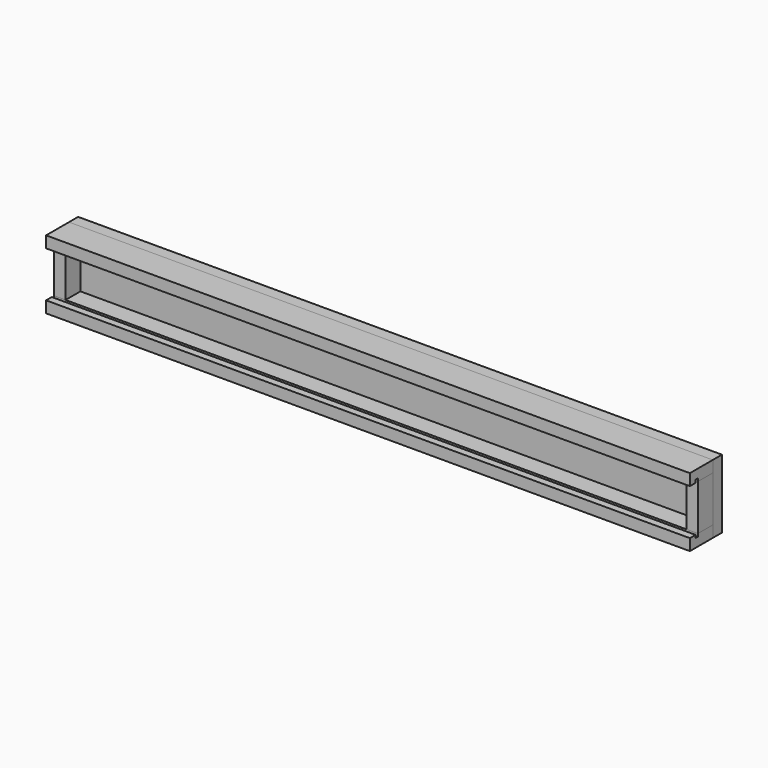
from build123d import *

# Parameters (mm, degrees)
F3_DEPTH = 20
F2_W     = 8
F2_H     = 32
F4_DEPTH = 13
F2_W_2   = 434
F5_DEPTH = 8
F6_W     = 2
F6_H     = 2
F7_DEPTH = 2384


with BuildPart() as f3:
    # F2 (on Front) → F3 (new body)
    with BuildSketch(Plane.XZ):
        Polygon((-217, 16), (217, 16), (225, 16), (225, 24), (217, 24), (-217, 24), (-225, 24), (-225, 16), align=None)
    extrude(amount=F3_DEPTH)

    # F6 (on face) → F7 (cut)
    with BuildSketch(Plane(origin=(-225, 0, 0), x_dir=(0, -1, 0), z_dir=(-1, 0, 0))):
        with Locations((14, 17)):
            Rectangle(F6_W, F6_H)
    extrude(amount=-F7_DEPTH, mode=Mode.SUBTRACT)


with BuildPart() as f4:
    # F2 (on Front) → F4 (new body)
    with BuildSketch(Plane.XZ):
        with Locations((-221, 0)):
            Rectangle(F2_W, F2_H)
    extrude(amount=F4_DEPTH)


with BuildPart() as f4b:
    # F2 (on Front) → F4, piece 2 (new body)
    with BuildSketch(Plane.XZ):
        with Locations((221, 0)):
            Rectangle(F2_W, F2_H)
    extrude(amount=F4_DEPTH)


with BuildPart() as f5:
    # F2 (on Front) → F5 (new body)
    with BuildSketch(Plane.XZ):
        Rectangle(F2_W_2, F2_H)
        Polygon((225, -16), (217, -16), (-217, -16), (-225, -16), (-225, -24), (-217, -24), (217, -24), (225, -24), align=None)
        with Locations((221, 0)):
            Rectangle(F2_W, F2_H)
        Polygon((-217, 16), (217, 16), (225, 16), (225, 24), (217, 24), (-217, 24), (-225, 24), (-225, 16), align=None)
        with Locations((-221, 0)):
            Rectangle(F2_W, F2_H)
    extrude(amount=-F5_DEPTH)


with BuildPart() as f8_1:
    # F8: instance of F3
    add(f3.part.mirror(Plane.XY))


solid = Compound([f3.part, f4.part, f4b.part, f5.part, f8_1.part])
